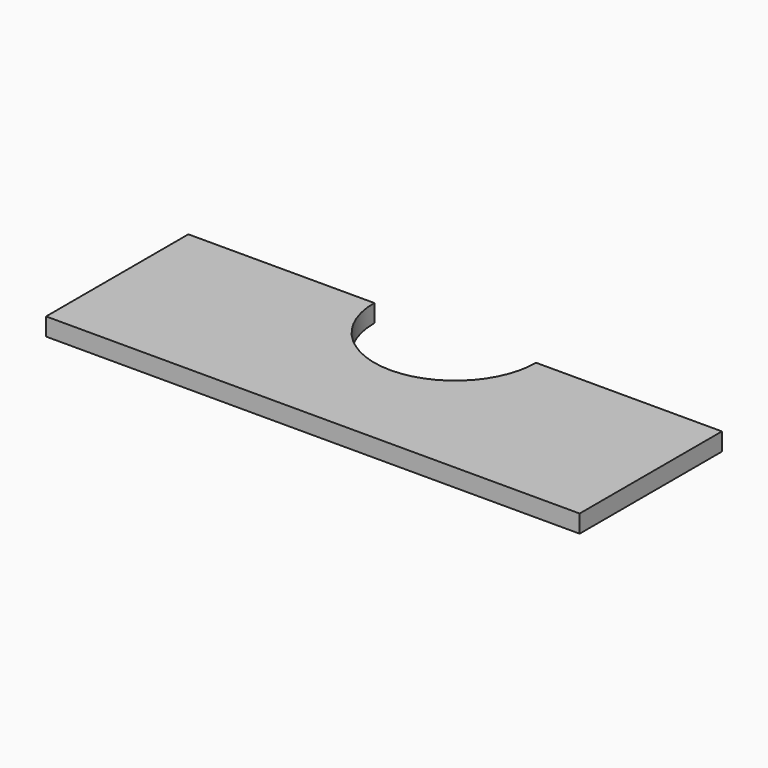
from build123d import *

# Parameters (mm, degrees)
F1_DEPTH = 6.35


with BuildPart() as f1:
    # F0 (on Top) → F1 (new body)
    with BuildSketch(Plane.XY):
        with BuildLine():
            Line((66.372564, 0), (0, 0))
            Line((0, 0), (0, -63.5))
            Line((0, -63.5), (190.5, -63.5))
            Line((190.5, -63.5), (190.5, 0))
            Line((190.5, 0), (124.127436, 0))
            ThreePointArc((124.127436, 0), (95.25, -28.877436), (66.372564, 0))
        make_face()
    extrude(amount=F1_DEPTH)


solid = f1.part
